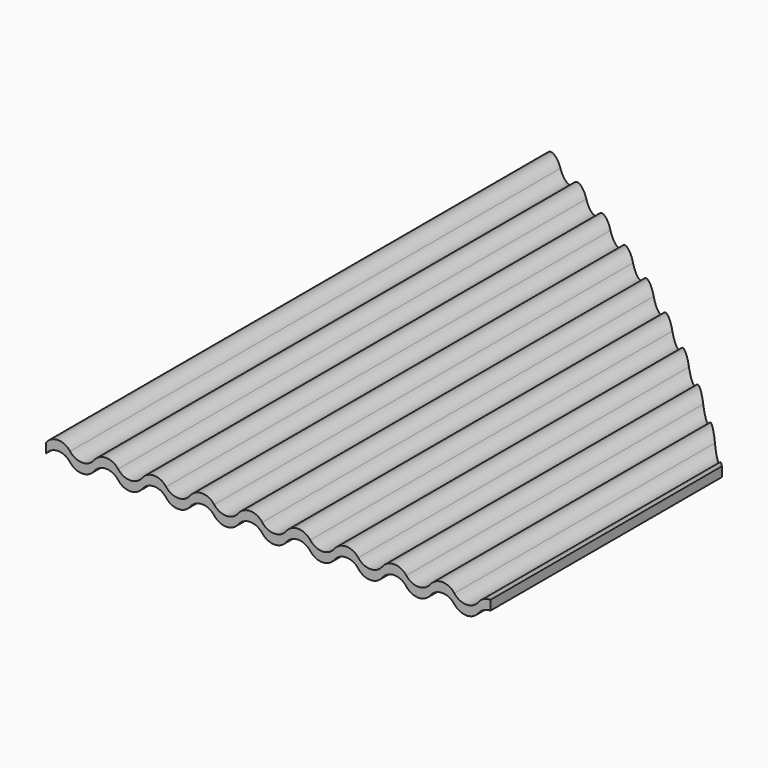
from build123d import *

# Parameters (mm, degrees)
F1_DEPTH = 70
F3_START = -25
F3_DEPTH = 50


with BuildPart() as f1:
    # F0 (on Front) → F1 (new body)
    with BuildSketch(Plane.XZ):
        with BuildLine():
            ThreePointArc((-21, -0.4), (-20, 0.1), (-19, -0.4))
            ThreePointArc((-19, -0.4), (-18, -0.9), (-17, -0.4))
            ThreePointArc((-17, -0.4), (-16, 0.1), (-15, -0.4))
            ThreePointArc((-15, -0.4), (-14, -0.9), (-13, -0.4))
            ThreePointArc((-13, -0.4), (-12, 0.1), (-11, -0.4))
            ThreePointArc((-11, -0.4), (-10, -0.9), (-9, -0.4))
            ThreePointArc((-9, -0.4), (-8, 0.1), (-7, -0.4))
            ThreePointArc((-7, -0.4), (-6, -0.9), (-5, -0.4))
            ThreePointArc((-5, -0.4), (-4, 0.1), (-3, -0.4))
            ThreePointArc((-3, -0.4), (-2, -0.9), (-1, -0.4))
            ThreePointArc((-1, -0.4), (0, 0.1), (1, -0.4))
            ThreePointArc((1, -0.4), (2, -0.9), (3, -0.4))
            ThreePointArc((3, -0.4), (4, 0.1), (5, -0.4))
            ThreePointArc((5, -0.4), (6, -0.9), (7, -0.4))
            ThreePointArc((7, -0.4), (8, 0.1), (9, -0.4))
            ThreePointArc((9, -0.4), (10, -0.9), (11, -0.4))
            ThreePointArc((11, -0.4), (12, 0.1), (13, -0.4))
            ThreePointArc((13, -0.4), (14, -0.9), (15, -0.4))
            ThreePointArc((15, -0.4), (16, 0.1), (17, -0.4))
            ThreePointArc((17, -0.4), (18, -0.9), (19, -0.4))
            ThreePointArc((19, -0.4), (20, 0.1), (21, -0.4))
            ThreePointArc((21, -0.4), (22, -0.9), (23, -0.4))
            ThreePointArc((23, -0.4), (24, 0.1), (25, -0.4))
            Line((25, -0.4), (25, 0.4))
            ThreePointArc((25, 0.4), (24, 0.9), (23, 0.4))
            ThreePointArc((23, 0.4), (22, -0.1), (21, 0.4))
            ThreePointArc((21, 0.4), (20, 0.9), (19, 0.4))
            ThreePointArc((19, 0.4), (18, -0.1), (17, 0.4))
            ThreePointArc((17, 0.4), (16, 0.9), (15, 0.4))
            ThreePointArc((15, 0.4), (14, -0.1), (13, 0.4))
            ThreePointArc((13, 0.4), (12, 0.9), (11, 0.4))
            ThreePointArc((11, 0.4), (10, -0.1), (9, 0.4))
            ThreePointArc((9, 0.4), (8, 0.9), (7, 0.4))
            ThreePointArc((7, 0.4), (6, -0.1), (5, 0.4))
            ThreePointArc((5, 0.4), (4, 0.9), (3, 0.4))
            ThreePointArc((3, 0.4), (2, -0.1), (1, 0.4))
            ThreePointArc((1, 0.4), (0, 0.9), (-1, 0.4))
            ThreePointArc((-1, 0.4), (-2, -0.1), (-3, 0.4))
            ThreePointArc((-3, 0.4), (-4, 0.9), (-5, 0.4))
            ThreePointArc((-5, 0.4), (-6, -0.1), (-7, 0.4))
            ThreePointArc((-7, 0.4), (-8, 0.9), (-9, 0.4))
            ThreePointArc((-9, 0.4), (-10, -0.1), (-11, 0.4))
            ThreePointArc((-11, 0.4), (-12, 0.9), (-13, 0.4))
            ThreePointArc((-13, 0.4), (-14, -0.1), (-15, 0.4))
            ThreePointArc((-15, 0.4), (-16, 0.9), (-17, 0.4))
            ThreePointArc((-17, 0.4), (-18, -0.1), (-19, 0.4))
            ThreePointArc((-19, 0.4), (-20, 0.9), (-21, 0.4))
            ThreePointArc((-21, 0.4), (-22, -0.1), (-23, 0.4))
            ThreePointArc((-23, 0.4), (-24, 0.9), (-25, 0.4))
            Line((-25, 0.4), (-25, -0.4))
            ThreePointArc((-25, -0.4), (-24, 0.1), (-23, -0.4))
            ThreePointArc((-23, -0.4), (-22, -0.9), (-21, -0.4))
        make_face()
    extrude(amount=F1_DEPTH)

    # F2 (on Top) → F3 (intersect)
    with BuildSketch(Plane.XY.offset(F3_START)):
        with BuildLine():
            Line((12, -150), (12, -45.9038905626))
            ThreePointArc((12, -45.9038905626), (-246, -150), (12, -254.0961094374))
            Line((12, -254.0961094374), (12, -150))
        make_face()
    extrude(amount=F3_DEPTH, mode=Mode.INTERSECT)


solid = f1.part
